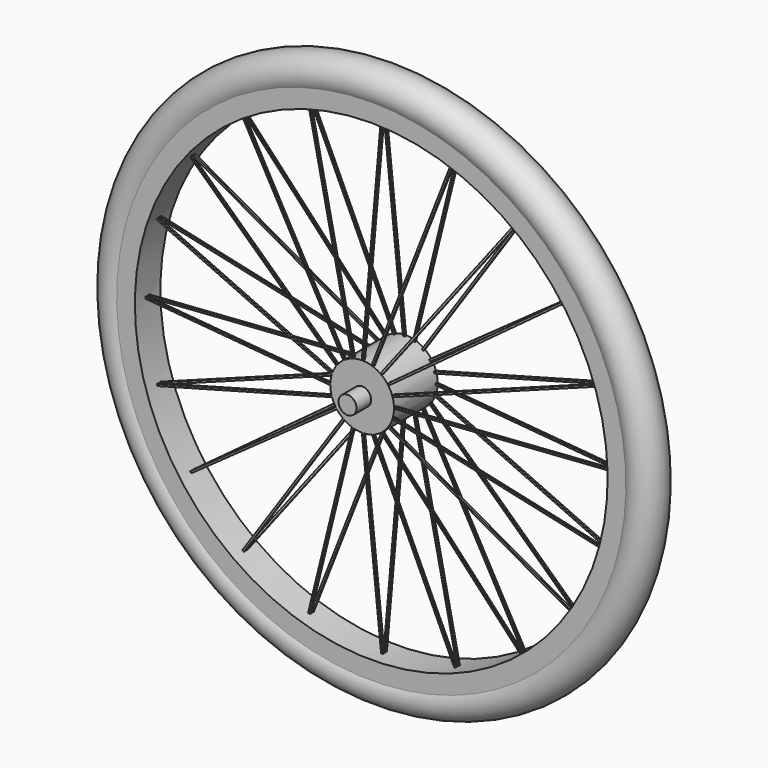
from build123d import *

# Parameters (mm, degrees)
F0_W     = 20
F0_H     = 9.9
F3_DEPTH = 1
F4_COUNT = 20
F5_ANGLE = 90


with BuildPart() as f1:
    # F0 (on Front) → F1 (revolve)
    with BuildSketch(Plane.XZ):
        with BuildLine():
            Line((-17.5, 279.5), (-17.5, 259.5))
            Line((-17.5, 259.5), (17.5, 259.5))
            Line((17.5, 259.5), (17.5, 279.5))
            ThreePointArc((17.5, 279.5), (0, 309.182458), (-17.5, 279.5))
        make_face()
        Polygon((-30, 9.9), (-30, 0), (30, 0), (30, 9.9), (30, 35), (-30, 35), align=None)
        with Locations((40, 4.95)):
            Rectangle(F0_W, F0_H)
        with Locations((-40, 4.95)):
            Rectangle(F0_W, F0_H)
    revolve(axis=Axis((0, 0, 0), (1, 0, 0)))

    # F2 (on Front) → F3 (join, symmetric)
    with BuildSketch(Plane.XZ):
        Polygon((27.785935, 30.02818), (29.785935, 30.02818), (0.160322, 281.287654), (-0.160322, 281.287654), (-0.460134, 269.587522), align=None)
        Polygon((-0.715668, 259.615363), (-0.460134, 269.587522), (-1, 274.16621), (-29.785935, 30.02818), (-27.785935, 30.02818), align=None)
    extrude(amount=F3_DEPTH, both=True)

    # F4: F1 ×20 about axis
    f4_axis = Axis((30, 0, 0), (1, 0, 0))


with BuildPart() as f1_1:
    add(f1.part)
    for i in range(1, F4_COUNT):
        add(f1.part.rotate(f4_axis, i * 360 / F4_COUNT))


with BuildPart() as f1_2:
    # F5: moved
    add(f1_1.part.rotate(Axis((17.5, 0, 269.5), (0, 0, -1)), F5_ANGLE))


solid = f1_2.part
